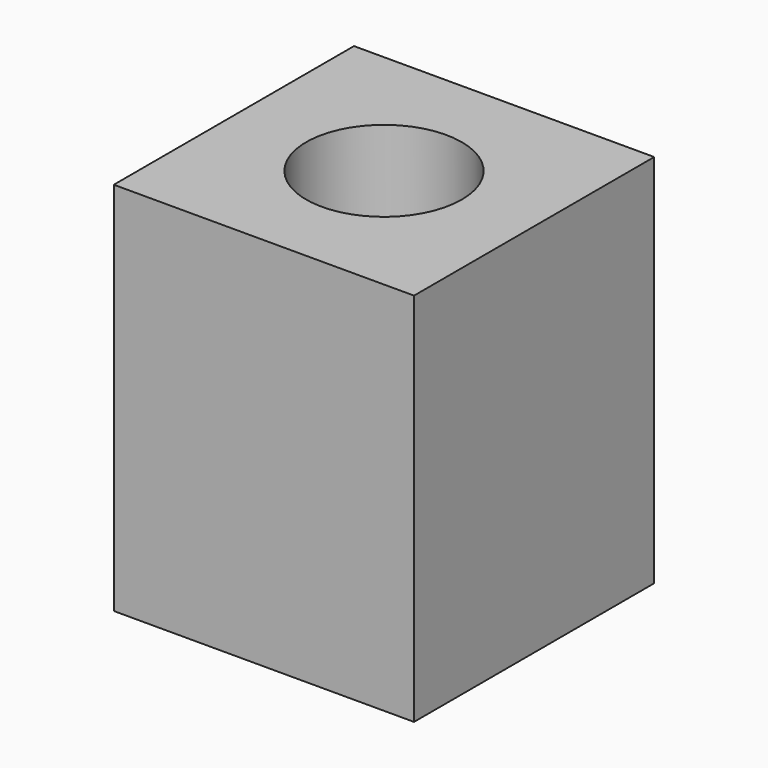
from build123d import *

# Parameters (mm, degrees)
F0_W     = 20
F0_H     = 20
F1_DEPTH = 25
F4_R     = 5.185081
F5_DEPTH = 100


with BuildPart() as f1:
    # F0 (on Top) → F1 (new body)
    with BuildSketch(Plane.XY):
        Rectangle(F0_W, F0_H)
    extrude(amount=F1_DEPTH)

    # F4 (on offset) → F5 (cut)
    with BuildSketch(Plane.XY.offset(50)):
        Circle(F4_R)
    extrude(amount=-F5_DEPTH, mode=Mode.SUBTRACT)


solid = f1.part
